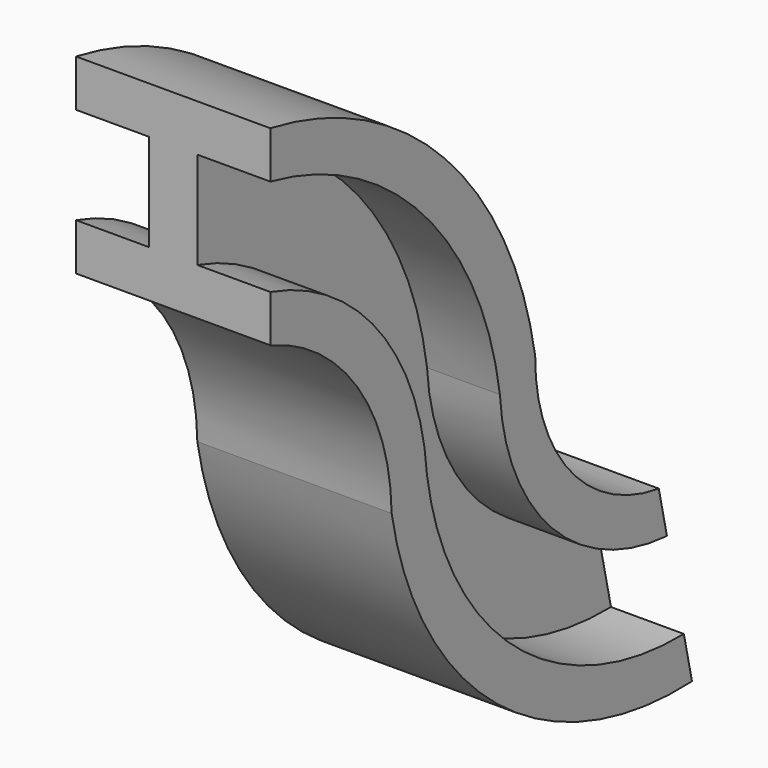
from build123d import *


with BuildPart() as f2:
    # F2: sweep along a path in F1
    with BuildLine(Plane.YZ) as f2_path:
        ThreePointArc((0, 0), (128.283823392, -77.0044991359), (189.3310906342, -213.6048775888))
        ThreePointArc((189.3310906342, -213.6048775888), (257.8411517666, -346.8010377561), (397.1464335918, -401.836335659))
    # F0 (on Front) → F2 (sweep)
    with BuildSketch(Plane.XZ):
        Polygon((76.2, 74.93), (-76.2, 74.93), (-76.2, 38.1), (-19.05, 38.1), (-19.05, -38.1), (-76.2, -38.1), (-76.2, -74.93), (76.2, -74.93), (76.2, -38.1), (19.05, -38.1), (19.05, 38.1), (76.2, 38.1), align=None)
    sweep(path=f2_path.line)


solid = f2.part
